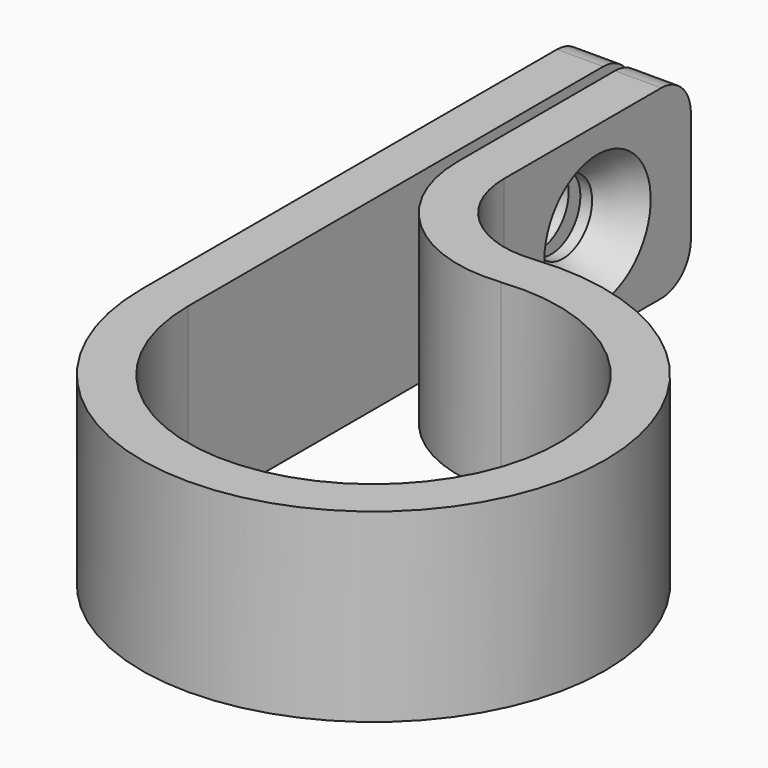
from build123d import *

# Parameters (mm, degrees)
F1_DEPTH       = 6.35
F3_D           = 5
F3_CSINK_D     = 9.1186
F3_CSINK_ANGLE = 82
F4_R           = 2.54


with BuildPart() as f1:
    # F0 (on Top) → F1 (new body, symmetric)
    with BuildSketch(Plane.XY):
        with BuildLine():
            ThreePointArc((-1.357143, 12.627279), (9.447902, -8.486881), (-12.7, 0))
            Line((-12.7, 0), (-12.7, 38.1))
            Line((-12.7, 38.1), (-15.875, 38.1))
            Line((-15.875, 38.1), (-15.875, 0))
            ThreePointArc((-15.875, 0), (11.809878, -10.608601), (-1.696429, 15.784098))
            ThreePointArc((-1.696429, 15.784098), (-6.61844, 17.373786), (-8.725, 22.097737))
            Line((-8.725, 22.097737), (-8.725, 38.1))
            Line((-8.725, 38.1), (-11.9, 38.1))
            Line((-11.9, 38.1), (-11.9, 22.097737))
            ThreePointArc((-11.9, 22.097737), (-8.74016, 15.011811), (-1.357143, 12.627279))
        make_face()
    extrude(amount=F1_DEPTH, both=True)

    # F3 (through all)
    with Locations(Plane.YZ.offset(-8.725)):
        with Locations((30.098869, 0)):
            CounterSinkHole(F3_D / 2, F3_CSINK_D / 2, counter_sink_angle=F3_CSINK_ANGLE)

    # F4
    f4_edges = [f1.edges().sort_by_distance(p)[0] for p in [
        (-14.2875, 38.1, 6.35),
        (-10.3125, 38.1, -6.35),
        (-14.2875, 38.1, -6.35),
        (-10.3125, 38.1, 6.35),
    ]]
    fillet(f4_edges, radius=F4_R)


solid = f1.part
